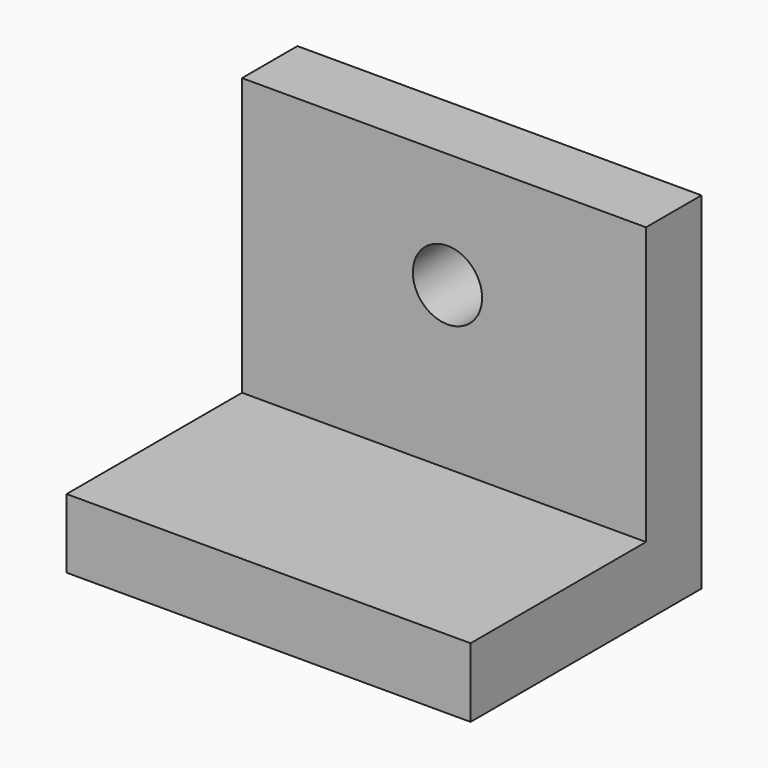
from build123d import *

# Parameters (mm, degrees)
F0_W     = 70
F0_H     = 12
F1_DEPTH = 50
F2_DEPTH = 12


with BuildPart() as f1:
    # F0 (on Front) → F1 (new body)
    with BuildSketch(Plane.XZ):
        with Locations((-0.595462, -17.008216)):
            Rectangle(F0_W, F0_H)
    extrude(amount=F1_DEPTH)

    # F0 (on Front) → F2 (join)
    with BuildSketch(Plane.XZ):
        with BuildLine():
            ThreePointArc((6, 16.991784), (4.242641, 21.234424), (0, 22.991784))
            ThreePointArc((0, 22.991784), (-4.242641, 12.749143), (6, 16.991784))
        make_face()
        Polygon((0, 36.991784), (-35.595462, 36.991784), (-35.595462, -11.008216), (34.404538, -11.008216), (34.404538, 36.991784), align=None)
        with BuildLine():
            ThreePointArc((6, 16.991784), (-4.242641, 12.749143), (0, 22.991784))
            ThreePointArc((0, 22.991784), (4.242641, 21.234424), (6, 16.991784))
        make_face(mode=Mode.SUBTRACT)
        with Locations((-0.595462, -17.008216)):
            Rectangle(F0_W, F0_H)
    extrude(amount=F2_DEPTH)


solid = f1.part
